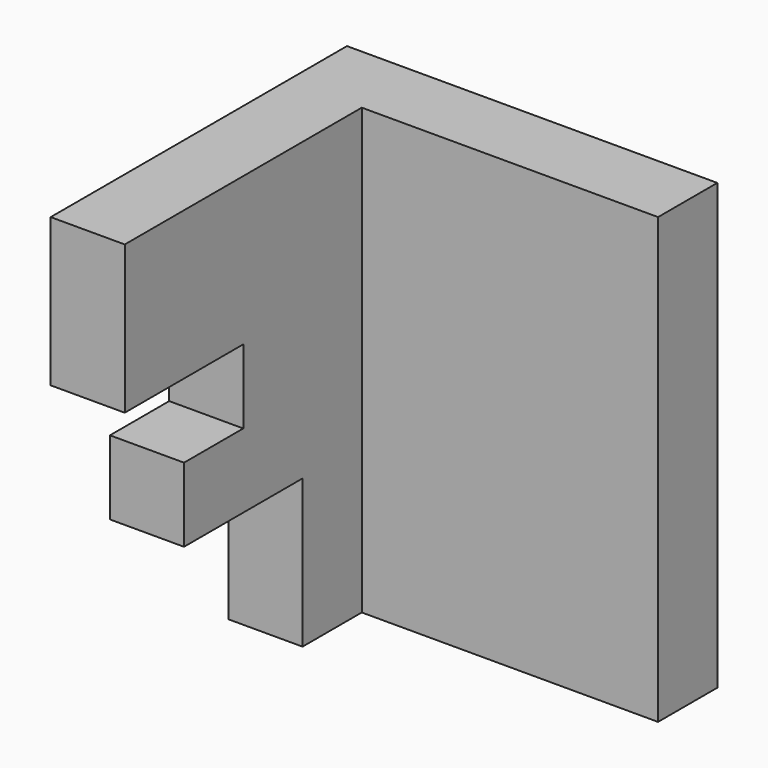
from build123d import *

# Parameters (mm, degrees)
F0_W     = 12.7
F0_H     = 76.2
F1_DEPTH = 63.5
F2_W     = 12.7
F2_H     = 76.2
F3_DEPTH = 50.8
F4_W     = 12.7
F4_H     = 25.4
F5_DEPTH = 38.1
F6_W     = 12.7
F6_H     = 12.7
F7_DEPTH = 12.7
F8_W     = 12.7
F8_H     = 12.7
F9_DEPTH = 25.4


with BuildPart() as f1:
    # F0 (on Right) → F1 (new body)
    with BuildSketch(Plane.YZ):
        with Locations((-32.9635, 14.30949)):
            Rectangle(F0_W, F0_H)
    extrude(amount=F1_DEPTH)

    # F2 (on face) → F3 (join)
    with BuildSketch(Plane.XZ.offset(39.3135)):
        with Locations((6.35, 14.30949)):
            Rectangle(F2_W, F2_H)
    extrude(amount=F3_DEPTH)

    # F4 (on face) → F5 (cut)
    with BuildSketch(Plane.XZ.offset(90.1135)):
        with Locations((6.35, -11.09051)):
            Rectangle(F4_W, F4_H)
    extrude(amount=-F5_DEPTH, mode=Mode.SUBTRACT)

    # F6 (on face) → F7 (cut)
    with BuildSketch(Plane.XZ.offset(90.1135)):
        with Locations((6.35, 7.95949)):
            Rectangle(F6_W, F6_H)
    extrude(amount=-F7_DEPTH, mode=Mode.SUBTRACT)

    # F8 (on face) → F9 (cut)
    with BuildSketch(Plane.XZ.offset(90.1135)):
        with Locations((6.35, 20.65949)):
            Rectangle(F8_W, F8_H)
    extrude(amount=-F9_DEPTH, mode=Mode.SUBTRACT)


solid = f1.part
